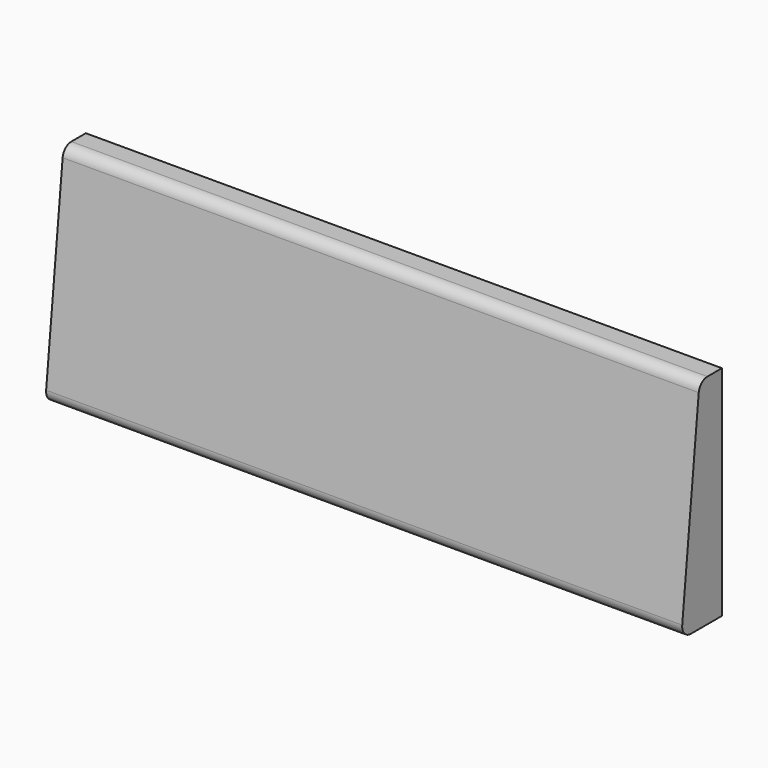
from build123d import *

# Parameters (mm, degrees)
F1_DEPTH = 875


with BuildPart() as f1:
    # F0 (on Right) → F1 (new body)
    with BuildSketch(Plane.YZ):
        with BuildLine():
            Line((35, 150), (10.037331, 150))
            ThreePointArc((10.037331, 150), (0.000372, 146.147172), (-4.880497, 136.567927))
            Line((-4.880497, 136.567927), (-33.258641, -133.432073))
            ThreePointArc((-33.258641, -133.432073), (-29.487985, -145.036959), (-18.340812, -150))
            Line((-18.340812, -150), (35, -150))
            Line((35, -150), (35, 150))
        make_face()
    extrude(amount=F1_DEPTH)


solid = f1.part
